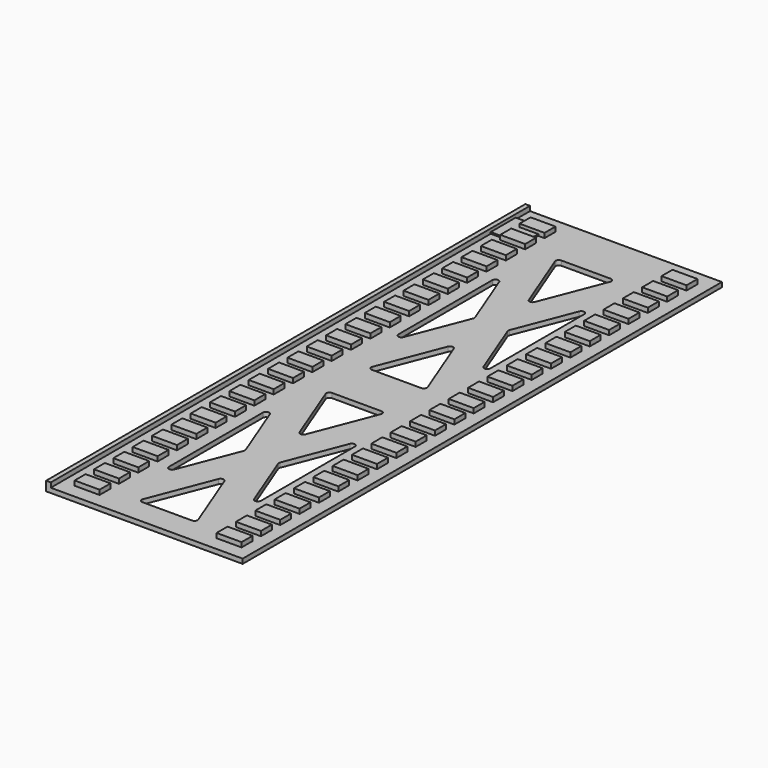
from build123d import *

# Parameters (mm, degrees)
F0_W     = 781.05
F0_H     = 19.05
F1_DEPTH = 2438.4
F2_W     = 101.6
F2_H     = 55.753
F3_DEPTH = 19.05
F4_W     = 19.05
F4_H     = 38.1
F5_DEPTH = 2438.4
F7_DEPTH = 19.05
F9_DEPTH = 6.35


with BuildPart() as f1:
    # F0 (on Front) → F1 (new body)
    with BuildSketch(Plane.XZ):
        with Locations((390.525, 9.525)):
            Rectangle(F0_W, F0_H)
    extrude(amount=F1_DEPTH)

    # F4 (on face) → F5 (join)
    with BuildSketch(Plane(origin=(0, 0, 0), x_dir=(-1, 0, 0), z_dir=(0, 1, 0))):
        with Locations((9.525, 19.05)):
            Rectangle(F4_W, F4_H)
    extrude(amount=-F5_DEPTH)

    # F6 (on face) → F7 (cut, through all)
    with BuildSketch(Plane.XY.offset(19.05)):
        with BuildLine():
            Line((491.158652, -203.199998), (289.891346, -203.199998))
            ThreePointArc((289.891346, -203.199998), (279.409767, -208.728769), (278.054213, -220.501334))
            Line((278.054213, -220.501334), (378.687866, -479.385669))
            ThreePointArc((378.687866, -479.385669), (390.524999, -487.484333), (402.362131, -479.385669))
            Line((402.362131, -479.385669), (502.995784, -220.501334))
            ThreePointArc((502.995784, -220.501334), (501.64023, -208.728769), (491.158652, -203.199998))
        make_face()
        with BuildLine():
            Line((203.199998, -446.188451), (203.199998, -924.014546))
            ThreePointArc((203.199998, -924.014546), (213.559227, -936.496966), (227.73713, -928.615883))
            Line((227.73713, -928.615883), (320.607534, -689.702835))
            ThreePointArc((320.607534, -689.702835), (321.470401, -685.101499), (320.607534, -680.500163))
            Line((320.607534, -680.500163), (227.73713, -441.587115))
            ThreePointArc((227.73713, -441.587115), (213.559227, -433.706032), (203.199998, -446.188451))
        make_face()
        with BuildLine():
            ThreePointArc((553.312868, -928.615883), (567.490771, -936.496966), (577.85, -924.014546))
            Line((577.85, -924.014546), (577.85, -446.188451))
            ThreePointArc((577.85, -446.188451), (567.490771, -433.706032), (553.312868, -441.587115))
            Line((553.312868, -441.587115), (460.442464, -680.500163))
            ThreePointArc((460.442464, -680.500163), (459.579596, -685.101499), (460.442464, -689.702835))
            Line((460.442464, -689.702835), (553.312868, -928.615883))
        make_face()
        with BuildLine():
            ThreePointArc((278.054213, -1149.701664), (279.409767, -1161.474228), (289.891346, -1167.003))
            Line((289.891346, -1167.003), (491.158652, -1167.003))
            ThreePointArc((491.158652, -1167.003), (501.64023, -1161.474228), (502.995784, -1149.701664))
            Line((502.995784, -1149.701664), (402.362131, -890.817328))
            ThreePointArc((402.362131, -890.817328), (390.524999, -882.718664), (378.687866, -890.817328))
            Line((378.687866, -890.817328), (278.054213, -1149.701664))
        make_face()
        with BuildLine():
            ThreePointArc((378.687866, -1646.388672), (390.524999, -1654.487336), (402.362131, -1646.388672))
            Line((402.362131, -1646.388672), (502.995784, -1387.504336))
            ThreePointArc((502.995784, -1387.504336), (501.64023, -1375.731772), (491.158652, -1370.203))
            Line((491.158652, -1370.203), (289.891346, -1370.203))
            ThreePointArc((289.891346, -1370.203), (279.409767, -1375.731772), (278.054213, -1387.504336))
            Line((278.054213, -1387.504336), (378.687866, -1646.388672))
        make_face()
        with BuildLine():
            ThreePointArc((320.607534, -1856.705837), (321.470401, -1852.104501), (320.607534, -1847.503165))
            Line((320.607534, -1847.503165), (227.73713, -1608.590117))
            ThreePointArc((227.73713, -1608.590117), (213.559227, -1600.709034), (203.199998, -1613.191454))
            Line((203.199998, -1613.191454), (203.199998, -2091.017549))
            ThreePointArc((203.199998, -2091.017549), (213.559227, -2103.499968), (227.73713, -2095.618885))
            Line((227.73713, -2095.618885), (320.607534, -1856.705837))
        make_face()
        with BuildLine():
            ThreePointArc((577.85, -1613.191454), (567.490771, -1600.709034), (553.312868, -1608.590117))
            Line((553.312868, -1608.590117), (460.442464, -1847.503165))
            ThreePointArc((460.442464, -1847.503165), (459.579596, -1852.104501), (460.442464, -1856.705837))
            Line((460.442464, -1856.705837), (553.312868, -2095.618885))
            ThreePointArc((553.312868, -2095.618885), (567.490771, -2103.499968), (577.85, -2091.017549))
            Line((577.85, -2091.017549), (577.85, -1613.191454))
        make_face()
        with BuildLine():
            ThreePointArc((402.362131, -2057.820331), (390.524999, -2049.721667), (378.687866, -2057.820331))
            Line((378.687866, -2057.820331), (278.054213, -2316.704666))
            ThreePointArc((278.054213, -2316.704666), (279.409767, -2328.477231), (289.891346, -2334.006002))
            Line((289.891346, -2334.006002), (491.158652, -2334.006002))
            ThreePointArc((491.158652, -2334.006002), (501.64023, -2328.477231), (502.995784, -2316.704666))
            Line((502.995784, -2316.704666), (402.362131, -2057.820331))
        make_face()
    extrude(amount=-F7_DEPTH, mode=Mode.SUBTRACT)


with BuildPart() as f3:
    # F2 (on face) → F3 (new body)
    with BuildSketch(Plane.XY.offset(19.05)):
        with Locations((101.6, -88.8365)):
            Rectangle(F2_W, F2_H)
        with Locations((101.6, -187.2615)):
            Rectangle(F2_W, F2_H)
        with Locations((101.6, -285.6865)):
            Rectangle(F2_W, F2_H)
        with Locations((101.6, -384.1115)):
            Rectangle(F2_W, F2_H)
        with Locations((101.6, -482.5365)):
            Rectangle(F2_W, F2_H)
        with Locations((101.6, -580.9615)):
            Rectangle(F2_W, F2_H)
        with Locations((101.6, -679.3865)):
            Rectangle(F2_W, F2_H)
        with Locations((101.6, -777.8115)):
            Rectangle(F2_W, F2_H)
        with Locations((101.6, -876.2365)):
            Rectangle(F2_W, F2_H)
        with Locations((101.6, -974.6615)):
            Rectangle(F2_W, F2_H)
        with Locations((101.6, -1073.0865)):
            Rectangle(F2_W, F2_H)
        with Locations((101.6, -1171.5115)):
            Rectangle(F2_W, F2_H)
        with Locations((101.6, -1269.9365)):
            Rectangle(F2_W, F2_H)
        with Locations((101.6, -1368.3615)):
            Rectangle(F2_W, F2_H)
        with Locations((101.6, -1466.7865)):
            Rectangle(F2_W, F2_H)
        with Locations((101.6, -1565.2115)):
            Rectangle(F2_W, F2_H)
        with Locations((101.6, -1663.6365)):
            Rectangle(F2_W, F2_H)
        with Locations((101.6, -1762.0615)):
            Rectangle(F2_W, F2_H)
        with Locations((101.6, -1860.4865)):
            Rectangle(F2_W, F2_H)
        with Locations((101.6, -1958.9115)):
            Rectangle(F2_W, F2_H)
        with Locations((101.6, -2057.3365)):
            Rectangle(F2_W, F2_H)
        with Locations((101.6, -2155.7615)):
            Rectangle(F2_W, F2_H)
        with Locations((101.6, -2254.1865)):
            Rectangle(F2_W, F2_H)
        with Locations((101.6, -2352.6115)):
            Rectangle(F2_W, F2_H)
        with Locations((679.45, -88.8365)):
            Rectangle(F2_W, F2_H)
        with Locations((679.45, -187.2615)):
            Rectangle(F2_W, F2_H)
        with Locations((679.45, -285.6865)):
            Rectangle(F2_W, F2_H)
        with Locations((679.45, -384.1115)):
            Rectangle(F2_W, F2_H)
        with Locations((679.45, -482.5365)):
            Rectangle(F2_W, F2_H)
        with Locations((679.45, -580.9615)):
            Rectangle(F2_W, F2_H)
        with Locations((679.45, -679.3865)):
            Rectangle(F2_W, F2_H)
        with Locations((679.45, -777.8115)):
            Rectangle(F2_W, F2_H)
        with Locations((679.45, -876.2365)):
            Rectangle(F2_W, F2_H)
        with Locations((679.45, -974.6615)):
            Rectangle(F2_W, F2_H)
        with Locations((679.45, -1073.0865)):
            Rectangle(F2_W, F2_H)
        with Locations((679.45, -1171.5115)):
            Rectangle(F2_W, F2_H)
        with Locations((679.45, -1269.9365)):
            Rectangle(F2_W, F2_H)
        with Locations((679.45, -1368.3615)):
            Rectangle(F2_W, F2_H)
        with Locations((679.45, -1466.7865)):
            Rectangle(F2_W, F2_H)
        with Locations((679.45, -1565.2115)):
            Rectangle(F2_W, F2_H)
        with Locations((679.45, -1663.6365)):
            Rectangle(F2_W, F2_H)
        with Locations((679.45, -1762.0615)):
            Rectangle(F2_W, F2_H)
        with Locations((679.45, -1860.4865)):
            Rectangle(F2_W, F2_H)
        with Locations((679.45, -1958.9115)):
            Rectangle(F2_W, F2_H)
        with Locations((679.45, -2057.3365)):
            Rectangle(F2_W, F2_H)
        with Locations((679.45, -2155.7615)):
            Rectangle(F2_W, F2_H)
        with Locations((679.45, -2254.1865)):
            Rectangle(F2_W, F2_H)
        with Locations((679.45, -2352.6115)):
            Rectangle(F2_W, F2_H)
    extrude(amount=F3_DEPTH)


with BuildPart() as f9:
    # F8 (on face) → F9 (new body)
    with BuildSketch(Plane.XY.offset(19.05)):
        Polygon((50.8, -73.025), (0, -73.025), (0, -200.025), (50.8, -200.025), (50.8, -159.385), (127, -159.385), (127, -116.713), (50.8, -116.713), align=None)
    extrude(amount=F9_DEPTH)


solid = Compound([f1.part, f3.part, f9.part])
